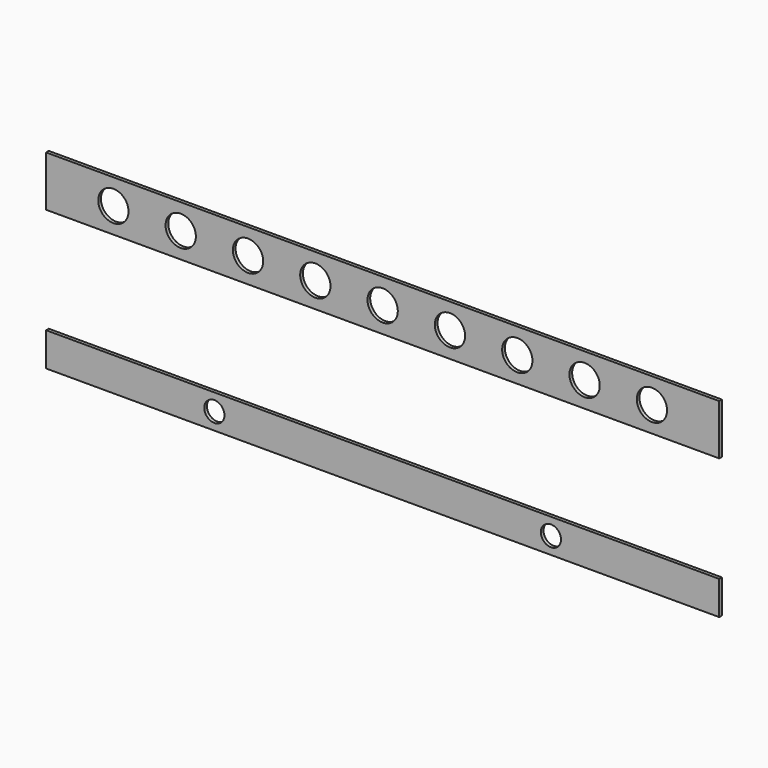
from build123d import *

# Parameters (mm, degrees)
F0_W     = 400
F0_H     = 30
F0_R     = 9
F0_H_2   = 20
F0_R_2   = 6
F1_DEPTH = 2


with BuildPart() as f1:
    # F0 (on Front) → F1 (new body)
    with BuildSketch(Plane.XZ):
        with Locations((102.367896, 0)):
            Rectangle(F0_W, F0_H)
        with Locations((-57.632104, 0)):
            Circle(F0_R, mode=Mode.SUBTRACT)
        with Locations((-17.632104, 0)):
            Circle(F0_R, mode=Mode.SUBTRACT)
        with Locations((22.367896, 0)):
            Circle(F0_R, mode=Mode.SUBTRACT)
        with Locations((62.367896, 0)):
            Circle(F0_R, mode=Mode.SUBTRACT)
        with Locations((102.367896, 0)):
            Circle(F0_R, mode=Mode.SUBTRACT)
        with Locations((142.367896, 0)):
            Circle(F0_R, mode=Mode.SUBTRACT)
        with Locations((182.367896, 0)):
            Circle(F0_R, mode=Mode.SUBTRACT)
        with Locations((222.367896, 0)):
            Circle(F0_R, mode=Mode.SUBTRACT)
        with Locations((262.367896, 0)):
            Circle(F0_R, mode=Mode.SUBTRACT)
        with Locations((102.367896, -88.022899)):
            Rectangle(F0_W, F0_H_2)
        with Locations((2.367896, -88.022899)):
            Circle(F0_R_2, mode=Mode.SUBTRACT)
        with Locations((202.367896, -88.022899)):
            Circle(F0_R_2, mode=Mode.SUBTRACT)
    extrude(amount=F1_DEPTH)


solid = f1.part
